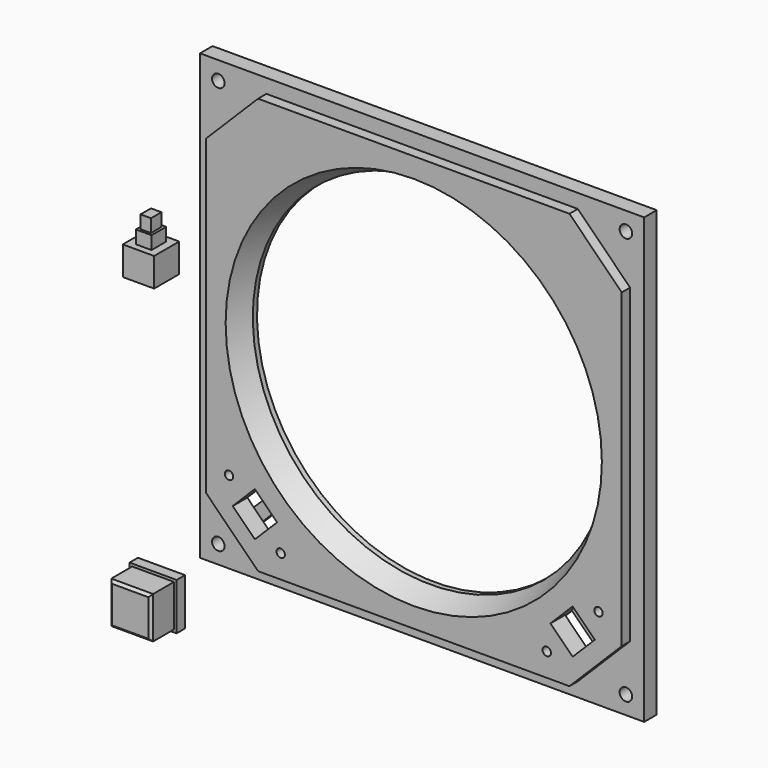
from build123d import *

# Parameters (mm, degrees)
F2_DEPTH  = 2
F3_W      = 85
F3_H      = 85
F4_DEPTH  = 3
F6_D      = 2.4
F7_D      = 76
F10_R     = 0.8
F11_DEPTH = 5
F13_DEPTH = 1.5
F14_W     = 8
F14_H     = 8
F15_DEPTH = 8
F16_W     = 6.2
F16_H     = 6.2
F17_DEPTH = 3
F18_W     = 2.5
F18_H     = 2
F19_DEPTH = 2.5
F20_W     = 9
F20_H     = 9
F20_W_2   = 8
F20_H_2   = 8
F21_DEPTH = 2.5
F23_DEPTH = 1.5
F24_W     = 6
F24_H     = 6
F25_DEPTH = 5.5
F26_W     = 3
F26_H     = 3.5
F27_DEPTH = 2.5
F28_W     = 2
F28_H     = 2.5
F29_DEPTH = 2.5
F30_SIZE  = 0.5
F31_W     = 9
F31_H     = 0.5
F32_DEPTH = 25


with BuildPart() as f2:
    # F1 (on offset) → F2 (new body)
    with BuildSketch(Plane.XZ.offset(3)):
        Polygon((39.8, 0), (39.8, 29.8), (29.8, 39.8), (0, 39.8), (-29.8, 39.8), (-39.8, 29.8), (-39.8, 0), (-39.8, -29.8), (-29.8, -39.8), (0, -39.8), (29.8, -39.8), (39.8, -29.8), align=None)
    extrude(amount=F2_DEPTH)

    # F3 (on face) → F4 (join)
    with BuildSketch(Plane(origin=(0, -3, 0), x_dir=(-1, 0, 0), z_dir=(0, 1, 0))):
        Rectangle(F3_W, F3_H)
    extrude(amount=F4_DEPTH)

    # F6 (through all)
    with Locations(Plane.XZ.offset(5)):
        with Locations((-39, 39), (39, 39), (39, -39), (-39, -39)):
            Hole(F6_D / 2)

    # F7 (through all)
    with Locations(Plane.XZ.offset(5)):
        with Locations((0, 0)):
            Hole(F7_D / 2)

    # F8 (on Right) → F9 (revolve)
    with BuildSketch(Plane.YZ):
        Polygon((0, 38), (-5, 38), (-5, 36), (-1, 34), (0, 34), align=None)
    revolve(axis=Axis((0, -12.2109930962, 0), (0, -1, 0)))

    # F10 (on face) → F11 (cut)
    with BuildSketch(Plane.XZ.offset(5)):
        Polygon((-30.405591591, -34.6482322781), (-26.1629509039, -30.405591591), (-30.405591591, -26.1629509039), (-34.6482322781, -30.405591591), align=None)
        with Locations((-35.3553390593, -25.4558441227)):
            Circle(F10_R)
        with Locations((-25.4558441227, -35.3553390593)):
            Circle(F10_R)
        with Locations((25.4558441227, -35.3553390593)):
            Circle(F10_R)
        with Locations((35.3553390593, -25.4558441227)):
            Circle(F10_R)
        Polygon((26.1629509039, -30.405591591), (30.405591591, -34.6482322781), (34.6482322781, -30.405591591), (30.405591591, -26.1629509039), align=None)
    extrude(amount=-F11_DEPTH, mode=Mode.SUBTRACT)

    # F12 (on face) → F13 (join)
    with BuildSketch(Plane(origin=(0, 0, 0), x_dir=(-1, 0, 0), z_dir=(0, 1, 0))):
        Polygon((27.400387771, -29.1681547239), (31.6430284581, -33.4107954111), (33.4107954111, -31.6430284581), (29.1681547239, -27.400387771), align=None)
        Polygon((-27.400387771, -29.1681547239), (-29.1681547239, -27.400387771), (-33.4107954111, -31.6430284581), (-31.6430284581, -33.4107954111), align=None)
    extrude(amount=-F13_DEPTH)

    # F22 (on face) → F23 (cut)
    with BuildSketch(Plane(origin=(0, 0, 0), x_dir=(-1, 0, 0), z_dir=(0, 1, 0))):
        Polygon((31.6430284581, -33.4107954111), (30.405591591, -34.6482322781), (26.1629509039, -30.405591591), (24.7487373415, -31.8198051534), (28.9913780286, -36.0624458405), (28.9913780286, -42.5), (36.7695526217, -42.5), (36.7695526217, -29.6984848098), (31.8198051534, -24.7487373415), (30.405591591, -26.1629509039), (34.6482322781, -30.405591591), (33.4107954111, -31.6430284581), (34.4714555828, -32.7036886299), (32.7036886299, -34.4714555828), align=None)
        Polygon((-26.1629509039, -30.405591591), (-30.405591591, -34.6482322781), (-31.6430284581, -33.4107954111), (-32.7036886299, -34.4714555828), (-34.4714555828, -32.7036886299), (-33.4107954111, -31.6430284581), (-34.6482322781, -30.405591591), (-30.405591591, -26.1629509039), (-31.8198051534, -24.7487373415), (-36.7695526217, -29.6984848098), (-36.7695526217, -42.5), (-28.9913780286, -42.5), (-28.9913780286, -36.0624458405), (-24.7487373415, -31.8198051534), align=None)
    extrude(amount=-F23_DEPTH, mode=Mode.SUBTRACT)


with BuildPart() as f15:
    # F14 (on Front) → F15 (new body)
    with BuildSketch(Plane.XZ):
        with Locations((-51.8833158314, -52.5134520829)):
            Rectangle(F14_W, F14_H)
    extrude(amount=F15_DEPTH)

    # F16 (on face) → F17 (cut)
    with BuildSketch(Plane(origin=(0, 0, 0), x_dir=(-1, 0, 0), z_dir=(0, 1, 0))):
        with Locations((51.8833158314, -52.5134520829)):
            Rectangle(F16_W, F16_H)
    extrude(amount=-F17_DEPTH, mode=Mode.SUBTRACT)

    # F18 (on face) → F19 (cut)
    with BuildSketch(Plane(origin=(0, -3, 0), x_dir=(-1, 0, 0), z_dir=(0, 1, 0))):
        with Locations((51.8833158314, -52.5134520829)):
            Rectangle(F18_W, F18_H)
    extrude(amount=-F19_DEPTH, mode=Mode.SUBTRACT)

    # F20 (on face) → F21 (join)
    with BuildSketch(Plane(origin=(0, 0, 0), x_dir=(-1, 0, 0), z_dir=(0, 1, 0))):
        with Locations((51.8833158314, -52.5134520829)):
            Rectangle(F20_W, F20_H)
        with Locations((51.8833158314, -52.5134520829)):
            Rectangle(F20_W_2, F20_H_2, mode=Mode.SUBTRACT)
    extrude(amount=-F21_DEPTH)

    # F30
    f30_edges = [f15.edges().sort_by_distance(p)[0] for p in [
        (-51.883316, -8, -56.513452),
        (-47.883316, -8, -52.513452),
        (-51.883316, -8, -48.513452),
        (-55.883316, -8, -52.513452),
    ]]
    chamfer(f30_edges, length=F30_SIZE)

    # F31 (on face) → F32 (cut)
    with BuildSketch(Plane(origin=(0, 0, -57.0134520829), x_dir=(1, 0, 0), z_dir=(0, 0, -1))):
        with Locations((-51.8833158314, 0.25)):
            Rectangle(F31_W, F31_H)
    extrude(amount=-F32_DEPTH, mode=Mode.SUBTRACT)


with BuildPart() as f25:
    # F24 (on Top) → F25 (new body)
    with BuildSketch(Plane.XY):
        with Locations((-54.2820803821, 0)):
            Rectangle(F24_W, F24_H)
    extrude(amount=F25_DEPTH)

    # F26 (on face) → F27 (join)
    with BuildSketch(Plane.XY.offset(5.5)):
        with Locations((-54.2820803821, 0)):
            Rectangle(F26_W, F26_H)
    extrude(amount=F27_DEPTH)

    # F28 (on face) → F29 (join)
    with BuildSketch(Plane.XY.offset(8)):
        with Locations((-54.2820803821, 0)):
            Rectangle(F28_W, F28_H)
    extrude(amount=F29_DEPTH)


solid = Compound([f2.part, f15.part, f25.part])
